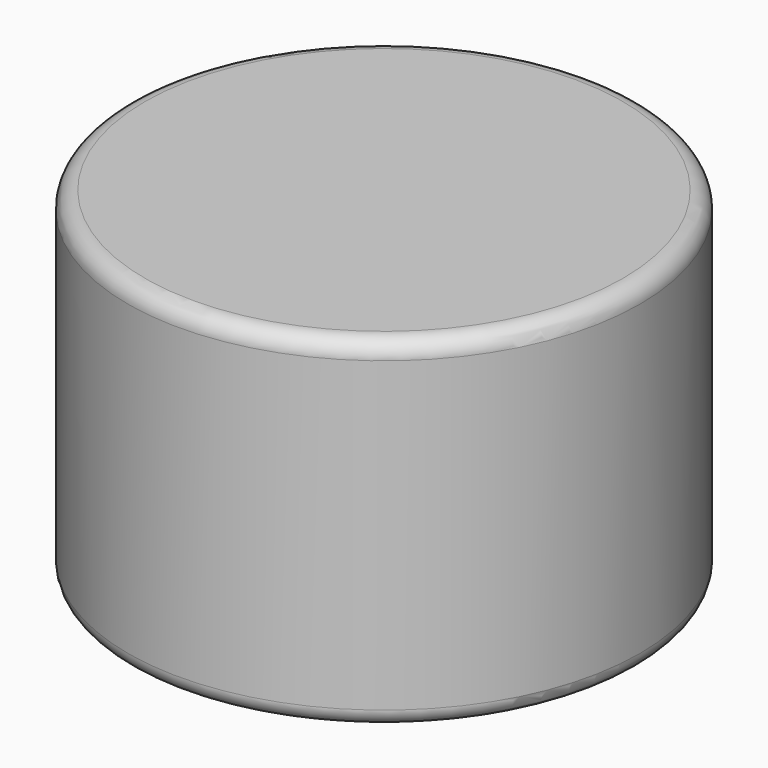
from build123d import *

# Parameters (mm, degrees)
SKETCH004_R  = 7.5
PAD004_DEPTH = 10
FILLET_R     = 0.5
SKETCH005_R  = 2.7
PAD005_DEPTH = 1
SKETCH006_R  = 0.75
PAD006_DEPTH = 0.5
FILLET001_R  = 0.2


with BuildPart() as part:
    # Sketch004 → Pad004 (new body)
    with BuildSketch(Plane.XY):
        Circle(SKETCH004_R)
    extrude(amount=-PAD004_DEPTH)

    # Fillet
    fillet_edges = [part.edges().sort_by_distance(p)[0] for p in [
        (-7.5, 0, 0),
        (-7.5, 0, -10),
    ]]
    fillet(fillet_edges, radius=FILLET_R)

    # Sketch005 (on Face5 of Fillet) → Pad005 (join)
    with BuildSketch(Plane(origin=(0, 0, -10), x_dir=(1, 0, 0), z_dir=(0, 0, -1))):
        Circle(SKETCH005_R)
    extrude(amount=PAD005_DEPTH)

    # Sketch006 (on Face7 of Pad005) → Pad006 (join)
    with BuildSketch(Plane(origin=(0, 0, -11), x_dir=(1, 0, 0), z_dir=(0, 0, -1))):
        Circle(SKETCH006_R)
    extrude(amount=PAD006_DEPTH)

    # Fillet001
    fillet001_edges = [part.edges().sort_by_distance(p)[0] for p in [
        (-0.75, 0, -11.5),
    ]]
    fillet(fillet001_edges, radius=FILLET001_R)


solid = part.part
